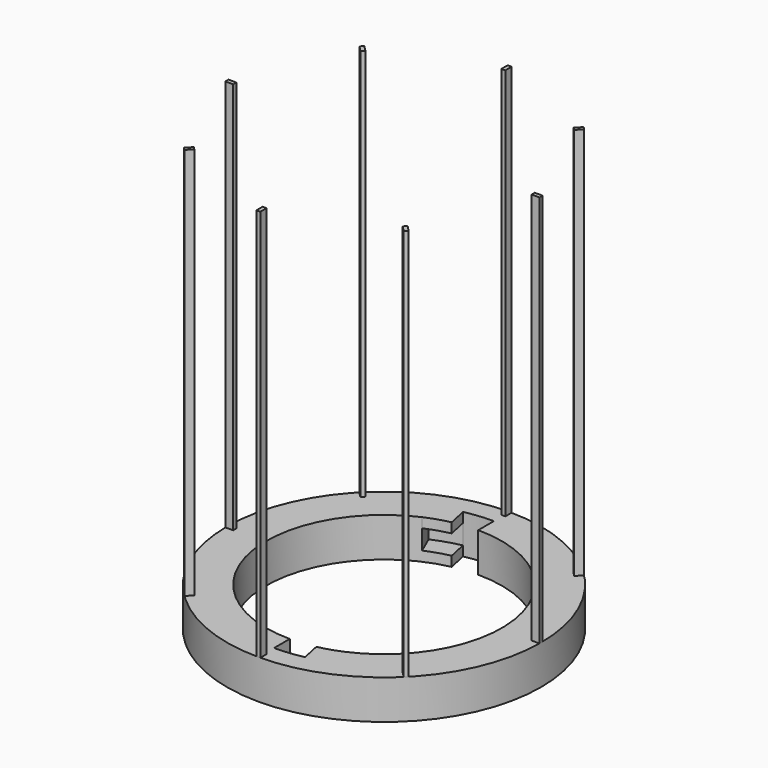
from build123d import *

# Parameters (mm, degrees)
F0_R     = 101.6
F0_R_2   = 76.2
F1_DEPTH = 25.4
F2_W     = 1.27
F2_H     = 5.08
F3_DEPTH = 254
F5_COUNT = 8
F6_DEPTH = 25.4
F7_DEPTH = 19.05
F9_DEPTH = 6.35


with BuildPart() as f1:
    # F0 (on Top) → F1 (new body)
    with BuildSketch(Plane.XY):
        Circle(F0_R)
        Circle(F0_R_2, mode=Mode.SUBTRACT)
    extrude(amount=F1_DEPTH)

    # F2 (on face) → F6 (cut)
    with BuildSketch(Plane.XY.offset(25.4)):
        with BuildLine():
            Line((0, 76.2), (0, 88.9))
            ThreePointArc((0, 88.9), (-9.2925803845, 88.4129964982), (-18.4833493137, 86.9573217052))
            Line((-18.4833493137, 86.9573217052), (-15.8428708403, 74.5348471759))
            ThreePointArc((-15.8428708403, 74.5348471759), (-7.965068901, 75.7825684271), (0, 76.2))
        make_face()
        with BuildLine():
            ThreePointArc((15.8428708403, -74.5348471759), (7.965068901, -75.7825684271), (0, -76.2))
            Line((0, -76.2), (0, -88.9))
            ThreePointArc((0, -88.9), (9.2925803845, -88.4129964982), (18.4833493137, -86.9573217052))
            Line((18.4833493137, -86.9573217052), (15.8428708403, -74.5348471759))
        make_face()
    extrude(amount=-F6_DEPTH, mode=Mode.SUBTRACT)

    # F2 (on face) → F7 (cut)
    with BuildSketch(Plane.XY.offset(25.4)):
        with BuildLine():
            Line((-15.8428708403, 74.5348471759), (-18.4833493137, 86.9573217052))
            ThreePointArc((-18.4833493137, 86.9573217052), (-27.4716107999, 84.5489242986), (-36.1588875694, 81.2141911844))
            Line((-36.1588875694, 81.2141911844), (-30.9933322024, 69.6121638724))
            ThreePointArc((-30.9933322024, 69.6121638724), (-23.5470949714, 72.4705065417), (-15.8428708403, 74.5348471759))
        make_face()
        with BuildLine():
            ThreePointArc((18.4833493137, -86.9573217052), (27.4716107999, -84.5489242986), (36.1588875694, -81.2141911844))
            Line((36.1588875694, -81.2141911844), (30.9933322024, -69.6121638724))
            ThreePointArc((30.9933322024, -69.6121638724), (23.5470949714, -72.4705065417), (15.8428708403, -74.5348471759))
            Line((15.8428708403, -74.5348471759), (18.4833493137, -86.9573217052))
        make_face()
    extrude(amount=-F7_DEPTH, mode=Mode.SUBTRACT)

    # F8 (on face) → F9 (join)
    with BuildSketch(Plane.XY.offset(25.4)):
        with BuildLine():
            ThreePointArc((-30.9933322024, 69.6121638724), (-23.5470949714, 72.4705065417), (-15.8428708403, 74.5348471759))
            Line((-15.8428708403, 74.5348471759), (-18.4833493137, 86.9573217052))
            ThreePointArc((-18.4833493137, 86.9573217052), (-27.4716107999, 84.5489242986), (-36.1588875694, 81.2141911844))
            Line((-36.1588875694, 81.2141911844), (-30.9933322024, 69.6121638724))
        make_face()
        with BuildLine():
            Line((15.8428708403, -74.5348471759), (18.4833493137, -86.9573217052))
            ThreePointArc((18.4833493137, -86.9573217052), (27.4716107999, -84.5489242986), (36.1588875694, -81.2141911844))
            Line((36.1588875694, -81.2141911844), (30.9933322024, -69.6121638724))
            ThreePointArc((30.9933322024, -69.6121638724), (23.5470949714, -72.4705065417), (15.8428708403, -74.5348471759))
        make_face()
    extrude(amount=-F9_DEPTH)


with BuildPart() as f3:
    # F2 (on face) → F3 (new body)
    with BuildSketch(Plane.XY.offset(25.4)):
        with Locations((0.635, 99.0520621899)):
            Rectangle(F2_W, F2_H)
        with Locations((-0.635, 99.0520621899)):
            Rectangle(F2_W, F2_H)
    extrude(amount=F3_DEPTH)


with BuildPart() as f5_1:
    # F5: instance of F3
    add(f3.part.rotate(Axis((0, 0, 32.1001410484), (0, 0, 1)), 1 * 360 / F5_COUNT))


with BuildPart() as f5_2:
    # F5: instance of F3
    add(f3.part.rotate(Axis((0, 0, 32.1001410484), (0, 0, 1)), 2 * 360 / F5_COUNT))


with BuildPart() as f5_3:
    # F5: instance of F3
    add(f3.part.rotate(Axis((0, 0, 32.1001410484), (0, 0, 1)), 3 * 360 / F5_COUNT))


with BuildPart() as f5_4:
    # F5: instance of F3
    add(f3.part.rotate(Axis((0, 0, 32.1001410484), (0, 0, 1)), 4 * 360 / F5_COUNT))


with BuildPart() as f5_5:
    # F5: instance of F3
    add(f3.part.rotate(Axis((0, 0, 32.1001410484), (0, 0, 1)), 5 * 360 / F5_COUNT))


with BuildPart() as f5_6:
    # F5: instance of F3
    add(f3.part.rotate(Axis((0, 0, 32.1001410484), (0, 0, 1)), 6 * 360 / F5_COUNT))


with BuildPart() as f5_7:
    # F5: instance of F3
    add(f3.part.rotate(Axis((0, 0, 32.1001410484), (0, 0, 1)), 7 * 360 / F5_COUNT))


solid = Compound([f1.part, f3.part, f5_1.part, f5_2.part, f5_3.part, f5_4.part, f5_5.part, f5_6.part, f5_7.part])
